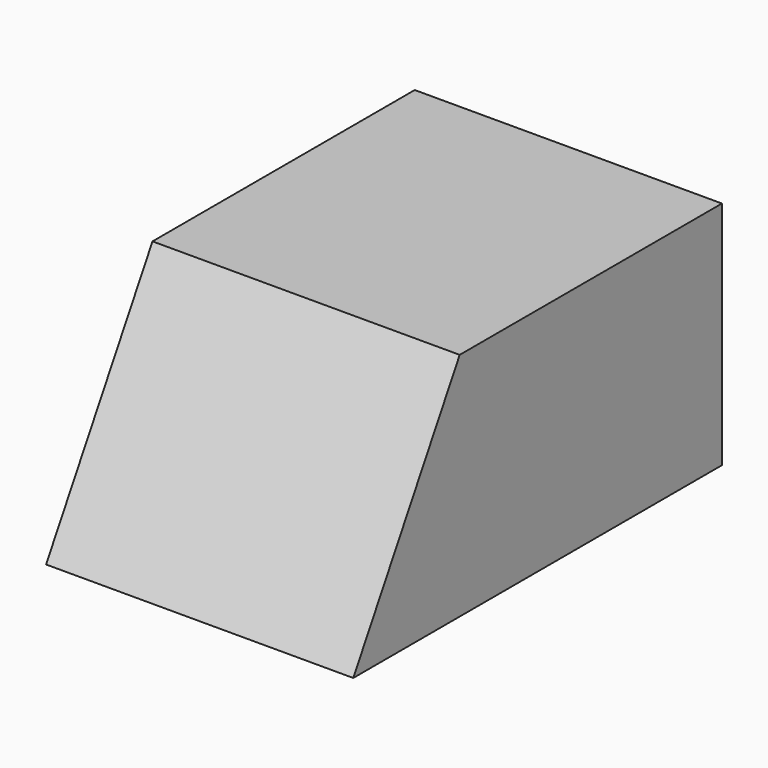
from build123d import *

# Parameters (mm, degrees)
F0_W     = 8
F0_H     = 6
F1_DEPTH = 12
F3_DEPTH = 8.001


with BuildPart() as f1:
    # F0 (on Front) → F1 (new body)
    with BuildSketch(Plane.XZ):
        Rectangle(F0_W, F0_H)
    extrude(amount=F1_DEPTH)

    # F2 (on face) → F3 (cut, through all)
    with BuildSketch(Plane.YZ.offset(4)):
        Polygon((-12, 3), (-12, -3), (-8.535898, 3), align=None)
    extrude(amount=-F3_DEPTH, mode=Mode.SUBTRACT)


solid = f1.part
